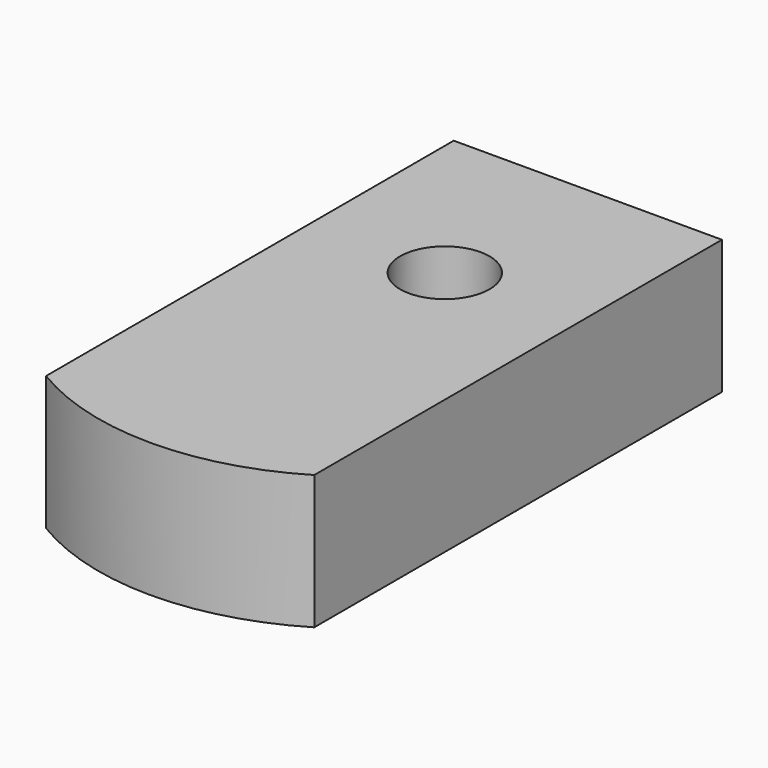
from build123d import *

# Parameters (mm, degrees)
F0_R     = 5
F1_DEPTH = 15


with BuildPart() as f1:
    # F0 (on Top) → F1 (new body)
    with BuildSketch(Plane.XY):
        with BuildLine():
            Line((15, -37), (15, 20))
            Line((15, 20), (-15, 20))
            Line((-15, 20), (-15, -37))
            ThreePointArc((-15, -37), (0, -41.180653), (15, -37))
        make_face()
        Circle(F0_R, mode=Mode.SUBTRACT)
    extrude(amount=F1_DEPTH)


solid = f1.part
